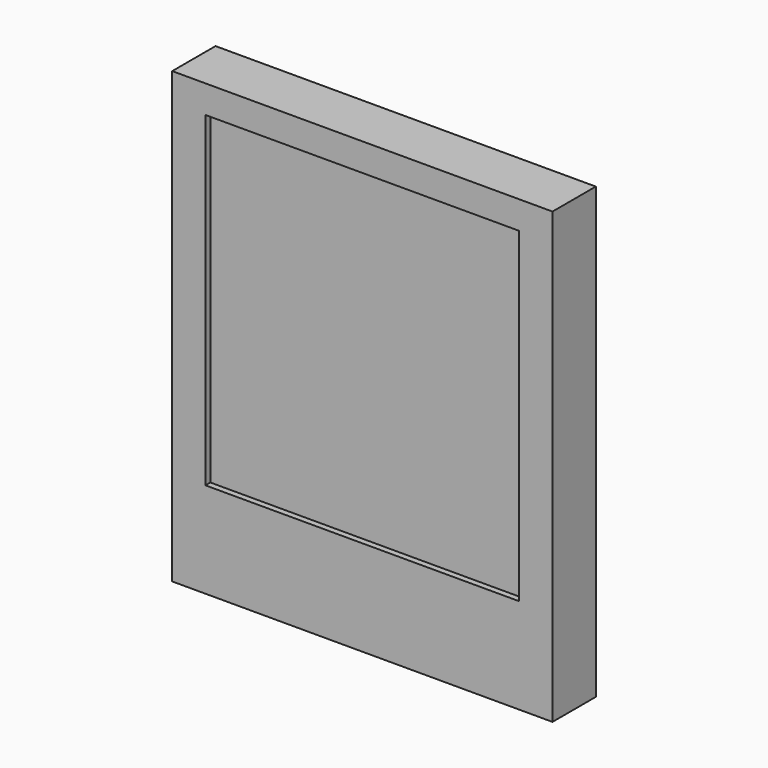
from build123d import *

# Parameters (mm, degrees)
F0_W     = 30.9
F0_H     = 36.51
F1_DEPTH = 4.4
F2_W     = 25.4976
F2_H     = 26.496
F3_DEPTH = 0.5


with BuildPart() as f1:
    # F0 (on Front) → F1 (new body)
    with BuildSketch(Plane.XZ):
        with Locations((0, -2.747)):
            Rectangle(F0_W, F0_H)
    extrude(amount=F1_DEPTH)

    # F2 (on face) → F3 (cut)
    with BuildSketch(Plane.XZ.offset(4.4)):
        Rectangle(F2_W, F2_H)
    extrude(amount=-F3_DEPTH, mode=Mode.SUBTRACT)


solid = f1.part
